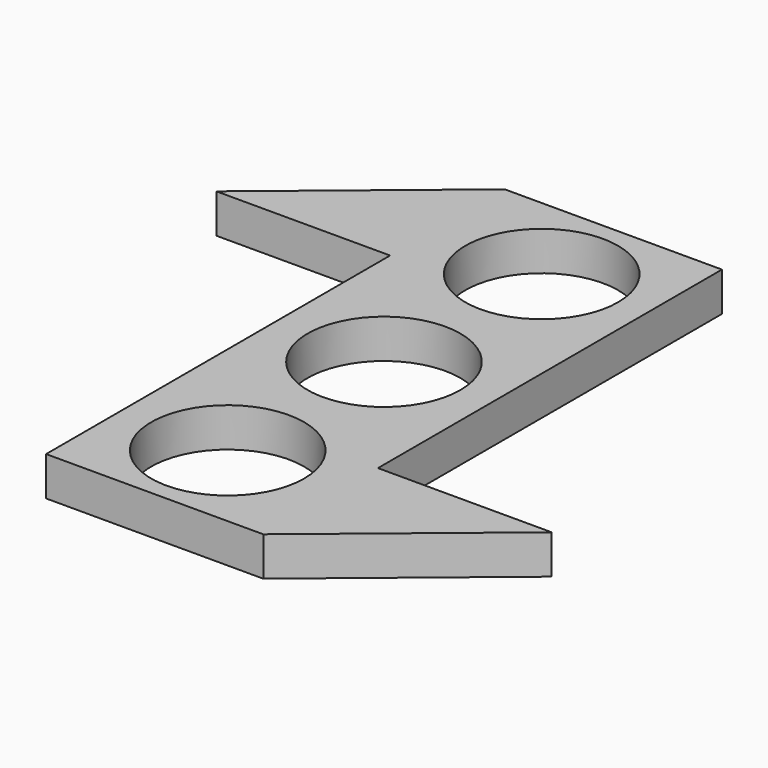
from build123d import *

# Parameters (mm, degrees)
F0_R     = 11.176
F1_DEPTH = 5.715


with BuildPart() as f1:
    # F0 (on Top) → F1 (new body)
    with BuildSketch(Plane.XY):
        with BuildLine():
            Line((14.771742, -20.371711), (14.771742, 0.583289))
            ThreePointArc((14.771742, 0.583289), (-1.103258, -15.291711), (-16.978258, 0.583289))
            Line((-16.978258, 0.583289), (-16.978258, -41.326711))
            Line((-16.978258, -41.326711), (14.771742, -41.326711))
            Line((14.771742, -41.326711), (14.771742, -20.371711))
        make_face()
        with Locations((-1.35877, -27.66218)):
            Circle(F0_R, mode=Mode.SUBTRACT)
        with BuildLine():
            ThreePointArc((-16.978258, 0.583289), (-1.103258, -15.291711), (14.771742, 0.583289))
            ThreePointArc((14.771742, 0.583289), (-1.103258, 16.458289), (-16.978258, 0.583289))
        make_face()
        with Locations((-1.103258, 0.583289)):
            Circle(F0_R, mode=Mode.SUBTRACT)
        with BuildLine():
            ThreePointArc((-16.978258, 0.583289), (-1.103258, 16.458289), (14.771742, 0.583289))
            Line((14.771742, 0.583289), (14.771742, 42.493289))
            Line((14.771742, 42.493289), (-16.978258, 42.493289))
            Line((-16.978258, 42.493289), (-16.978258, 21.538289))
            Line((-16.978258, 21.538289), (-16.978258, 0.583289))
        make_face()
        with Locations((-0.603735, 28.776065)):
            Circle(F0_R, mode=Mode.SUBTRACT)
        Polygon((40.171742, -20.371711), (14.771742, -20.371711), (14.771742, -41.326711), align=None)
        Polygon((-42.378258, 21.538289), (-16.978258, 21.538289), (-16.978258, 42.493289), align=None)
    extrude(amount=F1_DEPTH)


solid = f1.part
